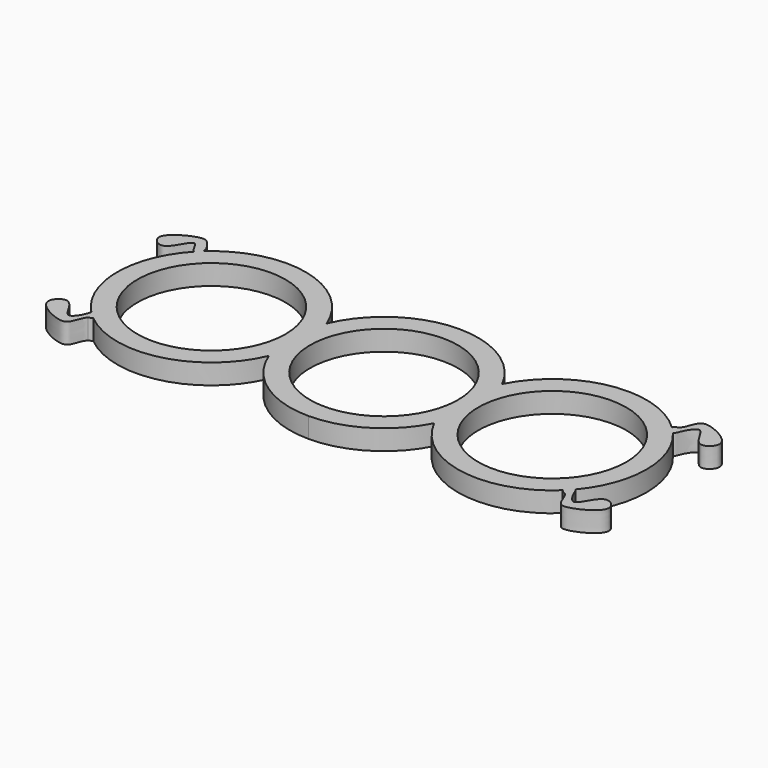
from build123d import *

# Parameters (mm, degrees)
F0_R     = 11
F1_DEPTH = 3


with BuildPart() as f1:
    # F0 (on Top) → F1 (new body)
    with BuildSketch(Plane.XY):
        with BuildLine():
            ThreePointArc((-34.8640614018, -10.4052167505), (-22.6170531253, -13.2095389591), (-13.0526698053, -5.0623918214))
            ThreePointArc((-13.0526698053, -5.0623918214), (-7.9096938784, -11.551482275), (0, -14))
            ThreePointArc((4e-10, -13.9999999996), (7.339392295, -11.9219679892), (12.5000000004, -6.3047601061))
            ThreePointArc((12.5000000004, -6.3047601061), (22.6310281331, -13.7981148089), (34.6812630599, -10.1130186178))
            add(Edge.make_bspline(
                [(35.6833913723, -9.0479361618), (35.6777715185, -9.0436262714), (35.4433717015, -8.8692786898), (34.614752474, -8.7027580272), (34.5538741795, -9.7813534668), (34.6812630599, -10.1130186178)],
                knots=[0.7952262854, 0.7952262854, 0.7952262854, 0.7952262854, 0.7968204105, 0.8605514231, 0.9275096686, 0.9275096686, 0.9275096686, 0.9275096686], degree=3))
            ThreePointArc((35.6833913723, -9.0479361618), (39.0000000004, 1e-10), (35.6833913727, 9.0479361621))
            add(Edge.make_bspline(
                [(35.6833913727, 9.0479361621), (35.6777715188, 9.0436262716), (35.4433717018, 8.8692786898), (34.6147524738, 8.7027580271), (34.5538741794, 9.7813534674), (34.6812630601, 10.1130186184)],
                knots=[0.7952262854, 0.7952262854, 0.7952262854, 0.7952262854, 0.7968204105, 0.8605514231, 0.9275096686, 0.9275096686, 0.9275096686, 0.9275096686], degree=3))
            ThreePointArc((34.6812630601, 10.1130186184), (22.6310281332, 13.7981148098), (12.5000000004, 6.3047601069))
            ThreePointArc((12.5000000004, 6.3047601069), (7.339392295, 11.92196799), (4e-10, 14.0000000004))
            ThreePointArc((0, 14), (-7.7359009577, 11.6685833061), (-12.8952863962, 5.4508337675))
            ThreePointArc((-12.8952863962, 5.4508337675), (-22.7870004609, 14.0269300883), (-35.4428644488, 10.6766253317))
            add(Edge.make_bspline(
                [(-36.1675895163, 9.9570936229), (-35.8475027174, 9.8269329606), (-35.4943197713, 10.2181975304), (-35.4428644488, 10.6766253317)],
                knots=[0.9123126163, 0.9123126163, 0.9123126163, 0.9123126163, 1, 1, 1, 1], degree=3))
            ThreePointArc((-36.1675895163, 9.9570936229), (-39.9473024504, 0.2531474406), (-35.9807484555, -9.3759361492))
            add(Edge.make_bspline(
                [(-35.9807484555, -9.3759361492), (-35.9026841671, -9.1468150347), (-35.6548990413, -8.7045052233), (-34.569674283, -10.1089604965), (-34.8006636949, -10.3675348501), (-34.8640614018, -10.4052167505)],
                knots=[0.7999781646, 0.7999781646, 0.7999781646, 0.7999781646, 0.8438176991, 0.9339442561, 0.9544011138, 0.9544011138, 0.9544011138, 0.9544011138], degree=3))
        make_face()
        with BuildLine():
            ThreePointArc((0, -11), (-11, 0), (0, 11))
            ThreePointArc((4e-10, 11.0000000004), (11.0000000004, 4e-10), (4e-10, -10.9999999996))
        make_face(mode=Mode.SUBTRACT)
        with Locations((25.0000000004, 4e-10)):
            Circle(F0_R, mode=Mode.SUBTRACT)
        with Locations((-25.9479562015, 0.3884419461)):
            Circle(F0_R, mode=Mode.SUBTRACT)
        with BuildLine():
            add(Edge.make_bspline(
                [(-34.8640614018, -10.4052167505), (-35.0053765968, -10.4892107207), (-35.2493765909, -10.5227646374), (-35.4428644488, -10.6766253317)],
                knots=[0.9544011138, 0.9544011138, 0.9544011138, 0.9544011138, 1, 1, 1, 1], degree=3))
            add(Edge.make_bspline(
                [(-35.9807484555, -9.3759361492), (-35.9026841671, -9.1468150347), (-35.6548990413, -8.7045052233), (-34.569674283, -10.1089604965), (-34.8006636949, -10.3675348501), (-34.8640614018, -10.4052167505)],
                knots=[0.7999781646, 0.7999781646, 0.7999781646, 0.7999781646, 0.8438176991, 0.9339442561, 0.9544011138, 0.9544011138, 0.9544011138, 0.9544011138], degree=3))
            add(Edge.make_bspline(
                [(-35.4428644488, -10.6766253317), (-35.9050391431, -11.0441446176), (-36.219622074, -12.9499518906), (-37.7660853517, -13.5357403864), (-43.0554107511, -10.8212252242), (-39.8833851075, -7.9095014856), (-38.4611908969, -10.692520188), (-37.3881069061, -12.1616008314), (-36.2710225116, -10.4324420914), (-36.0360858623, -9.5383531594), (-35.9807484555, -9.3759361492)],
                knots=[0, 0, 0, 0, 0.1089197614, 0.1969548926, 0.3551047004, 0.4630229185, 0.5802627802, 0.6643194434, 0.7689016479, 0.7999781646, 0.7999781646, 0.7999781646, 0.7999781646], degree=3))
        make_face()
        with BuildLine():
            add(Edge.make_bspline(
                [(35.6833913723, -9.0479361618), (35.6777715185, -9.0436262714), (35.4433717015, -8.8692786898), (34.614752474, -8.7027580272), (34.5538741795, -9.7813534668), (34.6812630599, -10.1130186178)],
                knots=[0.7952262854, 0.7952262854, 0.7952262854, 0.7952262854, 0.7968204105, 0.8605514231, 0.9275096686, 0.9275096686, 0.9275096686, 0.9275096686], degree=3))
            add(Edge.make_bspline(
                [(34.6812630599, -10.1130186178), (34.700504364, -10.1631145918), (34.8643495417, -10.4860514838), (35.2069207006, -10.4531362414), (35.4428644488, -10.6766253317)],
                knots=[0.9275096686, 0.9275096686, 0.9275096686, 0.9275096686, 0.9376232983, 1, 1, 1, 1], degree=3))
            add(Edge.make_bspline(
                [(35.4428644488, -10.6766253317), (35.8319136858, -11.0451379992), (36.2461650032, -12.9495269673), (37.7535422949, -13.5361499921), (43.0581709123, -10.8197131358), (39.8826040001, -7.9131864451), (38.4617077029, -10.6791243494), (37.3869686275, -12.1995269782), (36.0613415223, -9.9414934898), (35.9271674265, -9.2348890823), (35.6833913723, -9.0479361618)],
                knots=[0, 0, 0, 0, 0.102853364, 0.1859852887, 0.3353267814, 0.4372343841, 0.547944452, 0.6273194934, 0.7260768853, 0.7952262854, 0.7952262854, 0.7952262854, 0.7952262854], degree=3))
        make_face()
        with BuildLine():
            add(Edge.make_bspline(
                [(-35.4428644488, 10.6766253317), (-35.3670289124, 11.3522623016), (-36.4150126629, 12.8377885002), (-37.6734122342, 13.5897936425), (-43.0781183207, 10.8021826813), (-39.871657785, 7.9312629018), (-38.486785101, 10.623039812), (-37.3180280816, 12.3569661054), (-36.6205510602, 10.1412867066), (-36.1675895163, 9.9570936229)],
                knots=[0, 0, 0, 0, 0.1292348283, 0.2336897493, 0.42133672, 0.5493832031, 0.6884899475, 0.7882243602, 0.9123126163, 0.9123126163, 0.9123126163, 0.9123126163], degree=3))
            add(Edge.make_bspline(
                [(-36.1675895163, 9.9570936229), (-35.8475027174, 9.8269329606), (-35.4943197713, 10.2181975304), (-35.4428644488, 10.6766253317)],
                knots=[0.9123126163, 0.9123126163, 0.9123126163, 0.9123126163, 1, 1, 1, 1], degree=3))
        make_face()
        with BuildLine():
            add(Edge.make_bspline(
                [(35.6833913727, 9.0479361621), (35.6777715188, 9.0436262716), (35.4433717018, 8.8692786898), (34.6147524738, 8.7027580271), (34.5538741794, 9.7813534674), (34.6812630601, 10.1130186184)],
                knots=[0.7952262854, 0.7952262854, 0.7952262854, 0.7952262854, 0.7968204105, 0.8605514231, 0.9275096686, 0.9275096686, 0.9275096686, 0.9275096686], degree=3))
            add(Edge.make_bspline(
                [(35.4428644488, 10.6766253317), (35.8319136858, 11.0451379992), (36.2461650032, 12.9495269673), (37.7535422949, 13.5361499921), (43.0581709123, 10.8197131358), (39.8826040001, 7.9131864451), (38.4617077029, 10.6791243494), (37.3869686275, 12.1995269782), (36.0613415225, 9.9414934902), (35.9271674265, 9.2348890826), (35.6833913727, 9.0479361621)],
                knots=[0, 0, 0, 0, 0.102853364, 0.1859852887, 0.3353267814, 0.4372343841, 0.547944452, 0.6273194934, 0.7260768853, 0.7952262854, 0.7952262854, 0.7952262854, 0.7952262854], degree=3))
            add(Edge.make_bspline(
                [(34.6812630601, 10.1130186184), (34.7005043642, 10.1631145921), (34.8643495418, 10.4860514838), (35.2069207006, 10.4531362414), (35.4428644488, 10.6766253317)],
                knots=[0.9275096686, 0.9275096686, 0.9275096686, 0.9275096686, 0.9376232983, 1, 1, 1, 1], degree=3))
        make_face()
    extrude(amount=F1_DEPTH)


solid = f1.part
